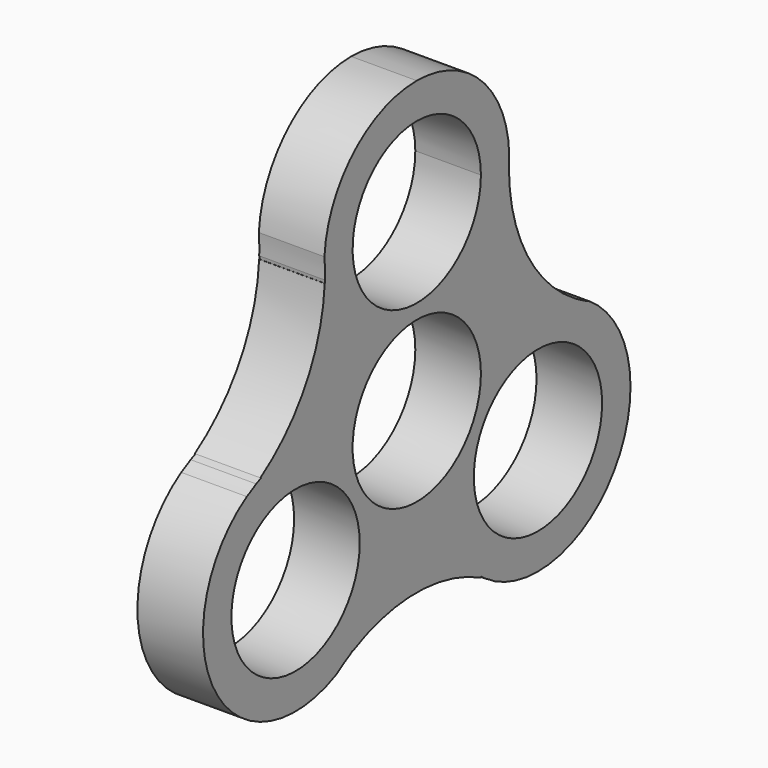
from build123d import *

# Parameters (mm, degrees)
F0_R     = 11
F1_DEPTH = 9


with BuildPart() as f1:
    # F0 (on Right) → F1 (new body)
    with BuildSketch(Plane.YZ):
        with BuildLine():
            ThreePointArc((15.85959, 24.499569), (11.041949, 35.395241), (0, 39.867456))
            ThreePointArc((0, 39.867456), (-10.844866, 35.582963), (-15.833122, 25.043263))
            ThreePointArc((-15.833122, 25.043263), (-15.75728, 23.624129), (-15.765371, 22.202993))
            ThreePointArc((-15.765371, 22.202993), (-15.738434, 21.980632), (-15.708361, 21.758673))
            ThreePointArc((-15.708361, 21.758673), (-15.745698, 21.778004), (-15.783107, 21.797192))
            ThreePointArc((-15.783107, 21.797192), (-19.005704, 10.966569), (-26.817959, 2.802245))
            ThreePointArc((-26.817959, 2.802245), (-26.757978, 2.763179), (-26.697744, 2.724503))
            ThreePointArc((-26.697744, 2.724503), (-27.118429, 2.548502), (-27.533881, 2.360484))
            ThreePointArc((-27.533881, 2.360484), (-28.33211, 1.907363), (-29.147044, 1.485023))
            ThreePointArc((-29.147044, 1.485023), (-34.660292, -19.696856), (-13.771541, -26.233518))
            ThreePointArc((-13.771541, -26.233518), (-12.580456, -25.458269), (-11.345671, -24.754709))
            ThreePointArc((-11.345671, -24.754709), (-11.166569, -24.6202), (-10.989383, -24.483176))
            ThreePointArc((-10.989383, -24.483176), (-10.987456, -24.525176), (-10.985368, -24.567168))
            ThreePointArc((-10.985368, -24.567168), (0.005524, -21.942707), (10.982164, -24.626157))
            ThreePointArc((10.982164, -24.626157), (10.986006, -24.554678), (10.989383, -24.483176))
            ThreePointArc((10.989383, -24.483176), (11.352147, -24.759499), (11.722702, -25.025283))
            ThreePointArc((11.722702, -25.025283), (12.51423, -25.490009), (13.287454, -25.984592))
            ThreePointArc((13.287454, -25.984592), (34.388124, -20.168266), (29.604663, 1.190255))
            ThreePointArc((29.604663, 1.190255), (28.337736, 1.83414), (27.111042, 2.551715))
            ThreePointArc((27.111042, 2.551715), (18.892767, 11.165319), (15.811179, 22.664799))
            ThreePointArc((15.811179, 22.664799), (15.81788, 23.582646), (15.85959, 24.499569))
        make_face()
        with Locations((-20.78461, -12)):
            Circle(F0_R, mode=Mode.SUBTRACT)
        with Locations((20.78461, -12)):
            Circle(F0_R, mode=Mode.SUBTRACT)
        Circle(F0_R, mode=Mode.SUBTRACT)
        with BuildLine():
            ThreePointArc((11, 24), (-7.778175, 16.221825), (0, 35))
            ThreePointArc((0, 35), (7.778175, 31.778175), (11, 24))
        make_face(mode=Mode.SUBTRACT)
    extrude(amount=F1_DEPTH)


solid = f1.part
